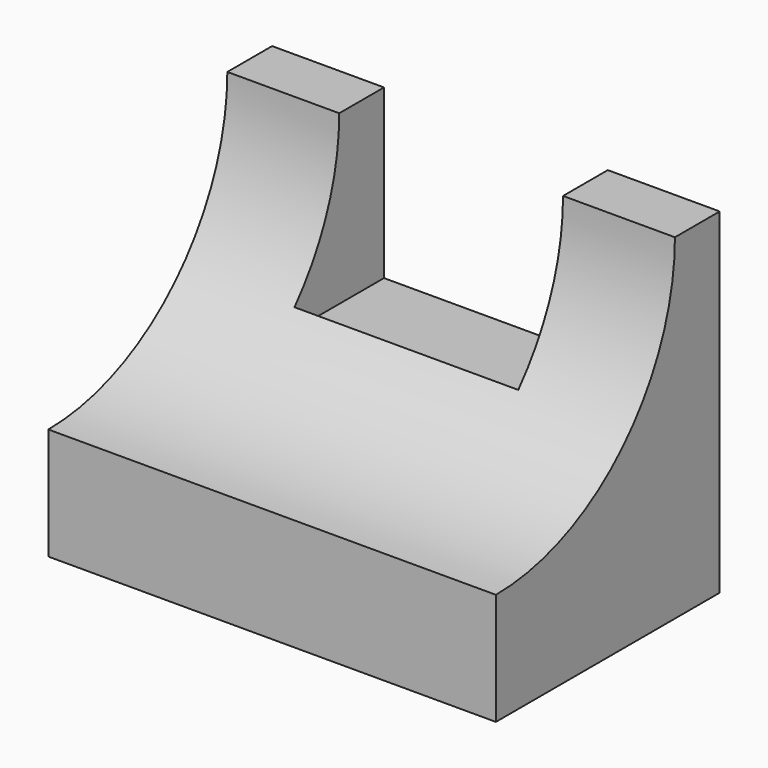
from build123d import *

# Parameters (mm, degrees)
F0_W     = 101.6
F0_H     = 76.2
F1_DEPTH = 63.5
F3_DEPTH = 114.3
F4_W     = 50.8
F4_H     = 38.1
F5_DEPTH = 25.4


with BuildPart() as f1:
    # F0 (on Front) → F1 (new body)
    with BuildSketch(Plane.XZ):
        with Locations((-4.494149, -12.221677)):
            Rectangle(F0_W, F0_H)
    extrude(amount=F1_DEPTH)

    # F2 (on face) → F3 (cut)
    with BuildSketch(Plane.YZ.offset(46.305851)):
        with BuildLine():
            Line((-63.5, 25.878323), (-63.5, -24.921677))
            ThreePointArc((-63.5, -24.921677), (-27.578976, -10.042701), (-12.7, 25.878323))
            Line((-12.7, 25.878323), (-63.5, 25.878323))
        make_face()
    extrude(amount=-F3_DEPTH, mode=Mode.SUBTRACT)

    # F4 (on face) → F5 (cut)
    with BuildSketch(Plane(origin=(0, 0, 0), x_dir=(-1, 0, 0), z_dir=(0, 1, 0))):
        with Locations((4.494149, 6.828323)):
            Rectangle(F4_W, F4_H)
    extrude(amount=-F5_DEPTH, mode=Mode.SUBTRACT)


solid = f1.part
